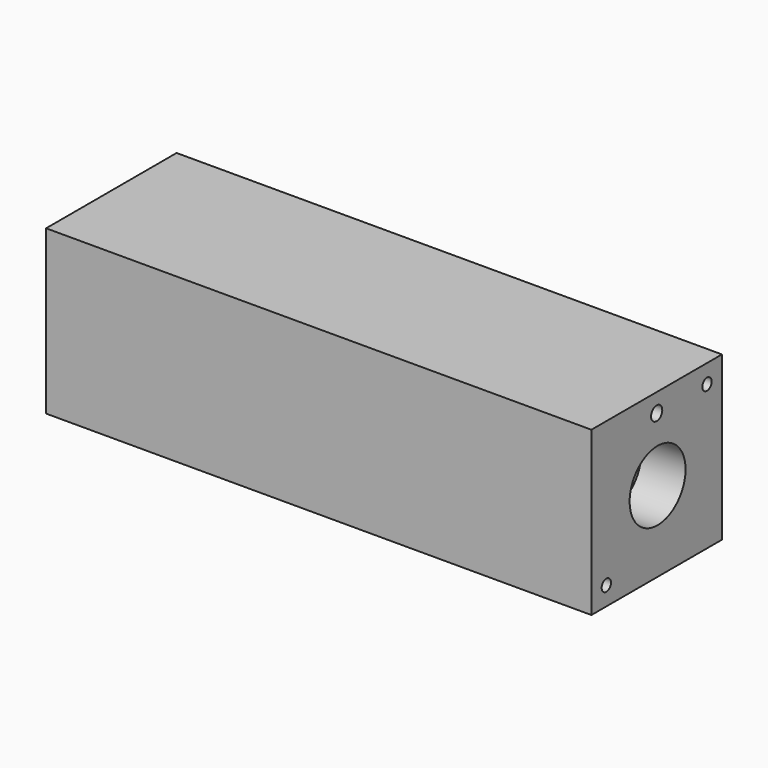
from build123d import *

# Parameters (mm, degrees)
SKETCH_W        = 117
SKETCH_H        = 35
PAD_DEPTH       = 35
SKETCH001_R     = 15
POCKET_DEPTH    = 97
SKETCH002_R     = 7.5
POCKET001_DEPTH = 12.5
SKETCH003_R     = 6
POCKET002_DEPTH = 12.5
SKETCH004_R     = 1.25
HOLE_DEPTH      = 117.001
SKETCH005_R     = 1.25
HOLE001_DEPTH   = 25
HOLE001_TIPS_R  = 1.25
SKETCH006_R     = 1.5
HOLE002_DEPTH   = 25
HOLE002_TIPS_R  = 1.5


with BuildPart() as part:
    # Sketch → Pad (new body)
    with BuildSketch(Plane.XZ):
        with Locations((58.5, 17.5)):
            Rectangle(SKETCH_W, SKETCH_H)
    extrude(amount=PAD_DEPTH)

    # Sketch001 → Pocket (cut)
    with BuildSketch(Plane(origin=(0, 0, 0), x_dir=(0, 0, -1), z_dir=(-1, 0, 0))):
        with Locations((-17.5, 17.5)):
            Circle(SKETCH001_R)
    extrude(amount=-POCKET_DEPTH, mode=Mode.SUBTRACT)

    # Sketch002 → Pocket001 (cut)
    with BuildSketch(Plane(origin=(120, 0, 0), x_dir=(0, 0, 1), z_dir=(1, 0, 0))):
        with Locations((17.25, 17.25)):
            Circle(SKETCH002_R)
    extrude(amount=-POCKET001_DEPTH, mode=Mode.SUBTRACT)

    # Sketch003 → Pocket002 (cut)
    with BuildSketch(Plane(origin=(97, 0, 0), x_dir=(0, 0, -1), z_dir=(-1, 0, 0))):
        with Locations((-17.5, 17.5)):
            Circle(SKETCH003_R)
    extrude(amount=-POCKET002_DEPTH, mode=Mode.SUBTRACT)

    # Sketch004 → Hole (cut, through all)
    with BuildSketch(Plane(origin=(0, 0, 0), x_dir=(0, 0, -1), z_dir=(-1, 0, 0))):
        with Locations((-31, 4)):
            Circle(SKETCH004_R)
        with Locations((-4, 31)):
            Circle(SKETCH004_R)
    extrude(amount=-HOLE_DEPTH, mode=Mode.SUBTRACT)

    # Sketch005 (on Face2 of Hole) → Hole001 (cut)
    with BuildSketch(Plane(origin=(0, 0, 0), x_dir=(0, 0, -1), z_dir=(-1, 0, 0))):
        with Locations((-4, 4)):
            Circle(SKETCH005_R)
        with Locations((-31, 31)):
            Circle(SKETCH005_R)
    extrude(amount=-HOLE001_DEPTH, mode=Mode.SUBTRACT)

    # Hole001 tips → Hole001 tip 1 section 0
    with BuildSketch(Plane(origin=(25, 0, 0), x_dir=(0, 0, -1), z_dir=(-1, 0, 0)), mode=Mode.PRIVATE) as hole001_tip_1_s0:
        with Locations((-4, 4)):
            Circle(HOLE001_TIPS_R)
    loft([hole001_tip_1_s0.sketch, Vertex(25.751076, -4, 4)], mode=Mode.SUBTRACT)

    # Hole001 tips → Hole001 tip 2 section 0
    with BuildSketch(Plane(origin=(25, 0, 0), x_dir=(0, 0, -1), z_dir=(-1, 0, 0)), mode=Mode.PRIVATE) as hole001_tip_2_s0:
        with Locations((-31, 31)):
            Circle(HOLE001_TIPS_R)
    loft([hole001_tip_2_s0.sketch, Vertex(25.751076, -31, 31)], mode=Mode.SUBTRACT)

    # Sketch006 → Hole002 (cut)
    with BuildSketch(Plane(origin=(117, 0, 0), x_dir=(0, 0, 1), z_dir=(1, 0, 0))):
        with Locations((31, 17.5)):
            Circle(SKETCH006_R)
    extrude(amount=-HOLE002_DEPTH, mode=Mode.SUBTRACT)

    # Hole002 tips → Hole002 tip 1 section 0
    with BuildSketch(Plane(origin=(92, 0, 0), x_dir=(0, 0, 1), z_dir=(1, 0, 0)), mode=Mode.PRIVATE) as hole002_tip_1_s0:
        with Locations((31, 17.5)):
            Circle(HOLE002_TIPS_R)
    loft([hole002_tip_1_s0.sketch, Vertex(91.098709, -17.5, 31)], mode=Mode.SUBTRACT)


solid = part.part
